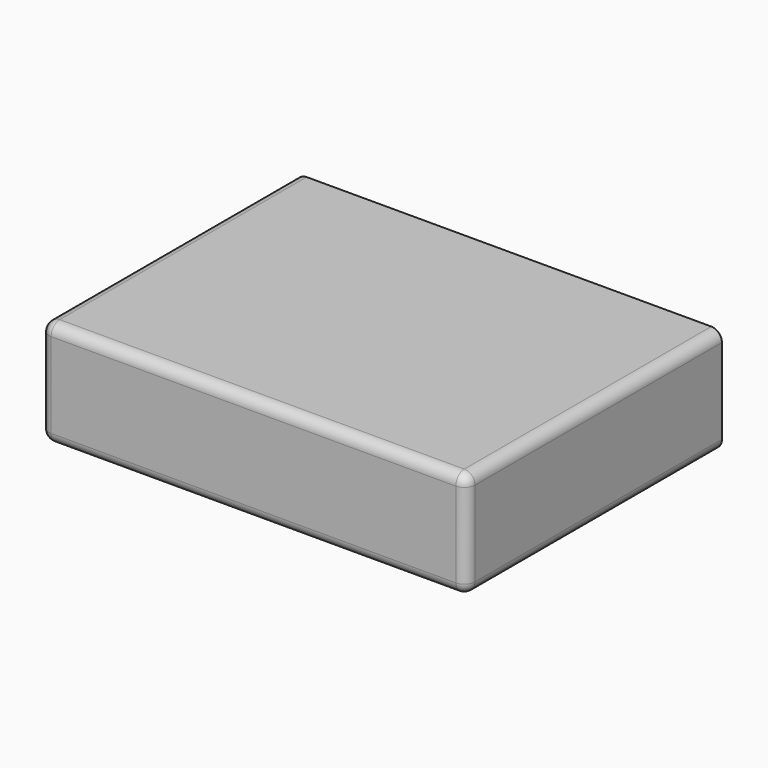
from build123d import *

# Parameters (mm, degrees)
F0_W          = 4
F0_H          = 1
F1_DEPTH      = 2
F1_DEPTH_BACK = 1
F2_R          = 0.1


with BuildPart() as f1:
    # F0 (on Front) → F1 (new body, two sides)
    with BuildSketch(Plane.XZ) as f1_sk:
        Rectangle(F0_W, F0_H)
    extrude(amount=F1_DEPTH)
    extrude(f1_sk.sketch, amount=-F1_DEPTH_BACK)

    # F2
    f2_edges = [f1.edges().sort_by_distance(p)[0] for p in [
        (-2, -0.5, 0.5),
        (2, -0.5, 0.5),
        (2, -0.5, -0.5),
        (2, -2, 0),
        (0, -2, 0.5),
        (0, -2, -0.5),
        (-2, -2, 0),
        (-2, -0.5, -0.5),
    ]]
    fillet(f2_edges, radius=F2_R)


solid = f1.part
